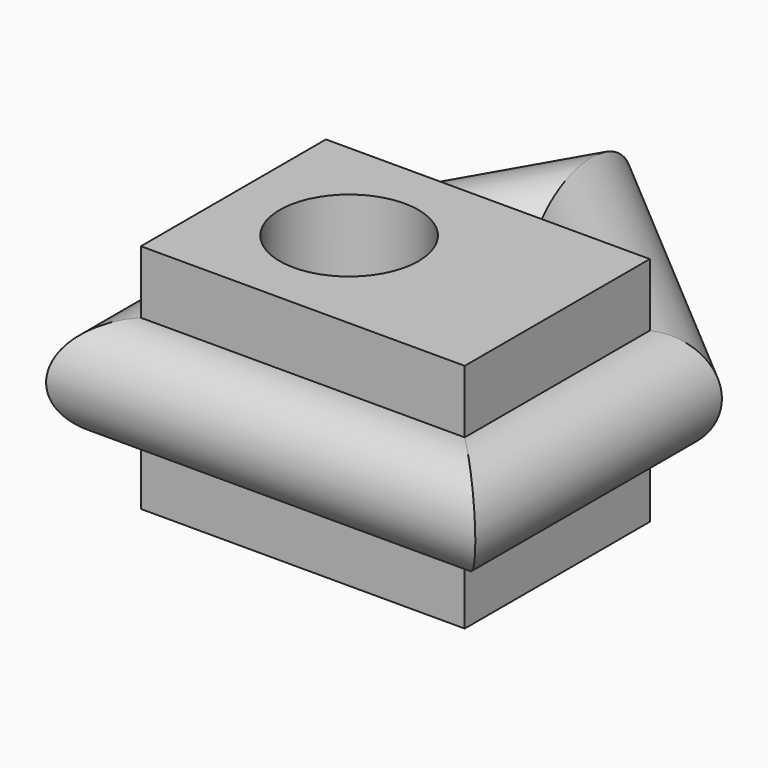
from build123d import *

# Parameters (mm, degrees)
F0_W     = 70
F0_H     = 50
F0_R     = 15
F1_DEPTH = 25
F2_ANGLE = 180
F4_R     = 11.3857608402


with BuildPart() as f1:
    # F0 (on Top) → F1 (new body, symmetric)
    with BuildSketch(Plane.XY):
        with Locations((0, 25)):
            Rectangle(F0_W, F0_H)
        with Locations((-10, 25)):
            Circle(F0_R, mode=Mode.SUBTRACT)
    extrude(amount=F1_DEPTH, both=True)


with BuildPart() as f2:
    # F0 (on Top) → F2 (revolve)
    with BuildSketch(Plane.XY):
        Polygon((-11.9059892324, 90), (-35, 50), (35, 50), align=None)
    revolve(axis=Axis((0, 50, 0), (-1, 0, 0)), revolution_arc=F2_ANGLE)


with BuildPart() as f5:
    # F5: sweep along a path in F0
    with BuildLine(Plane.XY) as f5_path:
        Line((-35, 0), (35, 0))
        Line((35, 0), (35, 50))
        Line((35, 50), (-11.9059892324, 90))
        Line((-11.9059892324, 90), (-35, 50))
        Line((-35, 50), (-35, 0))
    # F4 (on plane+point) → F5 (sweep)
    with BuildSketch(Plane.YZ.offset(-35)):
        Circle(F4_R)
    sweep(path=f5_path.line, transition=Transition.RIGHT)


solid = Compound([f1.part, f2.part, f5.part])
